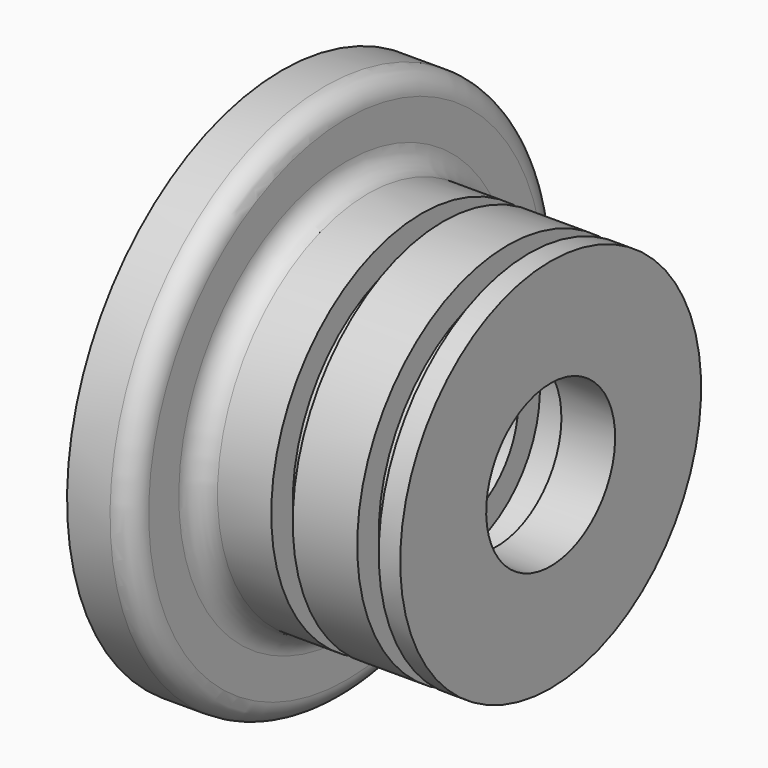
from build123d import *


with BuildPart() as f1:
    # F0 (on Front) → F1 (revolve)
    with BuildSketch(Plane.XZ):
        with BuildLine():
            Line((-54.890807, 50), (-54.890807, 10))
            Line((-54.890807, 10), (-32.890807, 10))
            Line((-32.890807, 10), (-32.890807, 15))
            Line((-32.890807, 15), (-22.890807, 15))
            Line((-22.890807, 15), (-22.890807, 20))
            Line((-22.890807, 20), (-14.890807, 20))
            Line((-14.890807, 20), (-14.890807, 15))
            Line((-14.890807, 15), (-4.890807, 15))
            Line((-4.890807, 15), (-4.890807, 35))
            Line((-4.890807, 35), (-8.890807, 35))
            Line((-8.890807, 35), (-8.890807, 30))
            Line((-8.890807, 30), (-12.890807, 30))
            Line((-12.890807, 30), (-12.890807, 35))
            Line((-12.890807, 35), (-24.890807, 35))
            Line((-24.890807, 35), (-24.890807, 30))
            Line((-24.890807, 30), (-28.890807, 30))
            Line((-28.890807, 30), (-28.890807, 35))
            Line((-28.890807, 35), (-38.890807, 35))
            ThreePointArc((-38.890807, 35), (-41.719234, 36.171573), (-42.890807, 39))
            Line((-42.890807, 39), (-42.890807, 46))
            ThreePointArc((-42.890807, 46), (-44.06238, 48.828427), (-46.890807, 50))
            Line((-46.890807, 50), (-54.890807, 50))
        make_face()
    revolve(axis=Axis((-0.221242, 0, 0), (1, 0, 0)))


solid = f1.part
